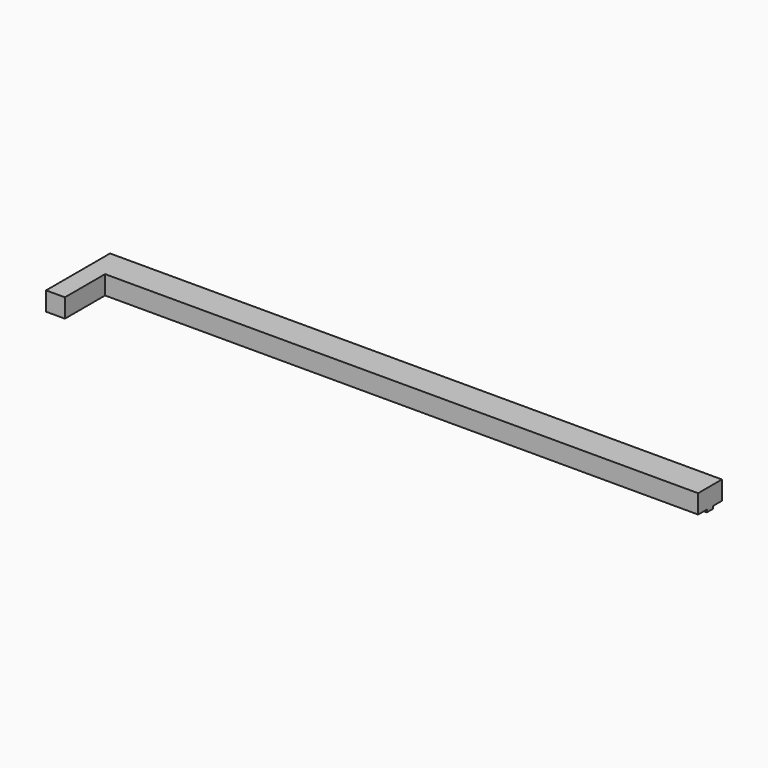
from build123d import *

# Parameters (mm, degrees)
F4_W     = 19.05
F4_H     = 19.05
F5_DEPTH = 50.8


with BuildPart() as f3:
    # F3: sweep along a path in F2
    with BuildLine(Plane.XY.offset(19.05)) as f3_path:
        Line((0, 0), (-619.0996, 0))
    # F0 (on Right) → F3 (sweep)
    with BuildSketch(Plane.YZ):
        Polygon((15.0495, 19.05), (-15.0495, 19.05), (-15.0495, 0), (-4.0005, 0), (-4.0005, -2.5365890469), (4.0005, -2.5365890469), (4.0005, 0), (15.0495, 0), align=None)
    sweep(path=f3_path.line)

    # F4 (on face) → F5 (join)
    with BuildSketch(Plane.XZ.offset(15.0495)):
        with Locations((-609.5746, 9.525)):
            Rectangle(F4_W, F4_H)
    extrude(amount=F5_DEPTH)


solid = f3.part
